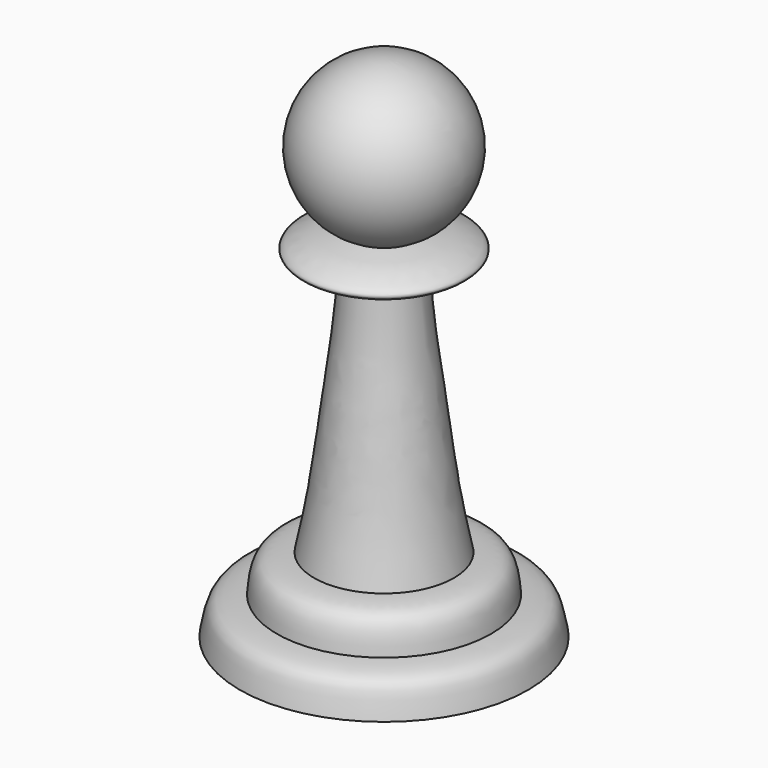
from build123d import *


with BuildPart() as f1:
    # F0 (on Front) → F1 (revolve)
    with BuildSketch(Plane.XZ):
        with BuildLine():
            add(Edge.make_bspline(
                [(2.585444193, 41.7548774657), (3.1730393469, 41.6264466582), (4.7857463799, 41.446635561), (8.6239463898, 39.674609313), (4.8747358073, 38.5924048278), (3.2325384602, 38.3428288887), (2.6219700584, 38.2823710304)],
                knots=[0, 0, 0, 0, 0.2437820353, 0.5055195599, 0.7531822793, 1, 1, 1, 1], degree=3))
            ThreePointArc((2.585444193, 41.7548774657), (6.81799768, 50.9807335539), (-1.1571589546, 57.2598900444))
            Line((-1.1571589546, 57.2598900444), (-1.1571589546, 4.2364438573))
            Line((-1.1571589546, 4.2364438573), (13.8428410454, 4.2364438573))
            add(Edge.make_bspline(
                [(9.9779186623, 8.1013662404), (10.9860333906, 7.9967945236), (13.4515181143, 7.9092746334), (13.5688623354, 5.4287306023), (13.8428410454, 4.2364438573)],
                knots=[0, 0, 0, 0, 0.487343839, 1, 1, 1, 1], degree=3))
            add(Edge.make_bspline(
                [(6.1129962791, 11.9662886235), (7.2839027607, 11.9127056881), (9.6593489472, 11.8040006961), (9.8707311251, 9.347172886), (9.9779186623, 8.1013662404)],
                knots=[0, 0, 0, 0, 0.4929206514, 1, 1, 1, 1], degree=3))
            add(Edge.make_bspline(
                [(2.6219700584, 38.2823710304), (2.7390289652, 34.303633454), (3.9397292849, 26.2798056058), (5.0354105939, 16.7737076592), (6.1129962791, 11.9662886235)],
                knots=[0, 0, 0, 0, 0.4763103774, 1, 1, 1, 1], degree=3))
        make_face()
    revolve(axis=Axis((-1.1571589546, 0, 30.7481669509), (0, 0, -1)))


solid = f1.part
